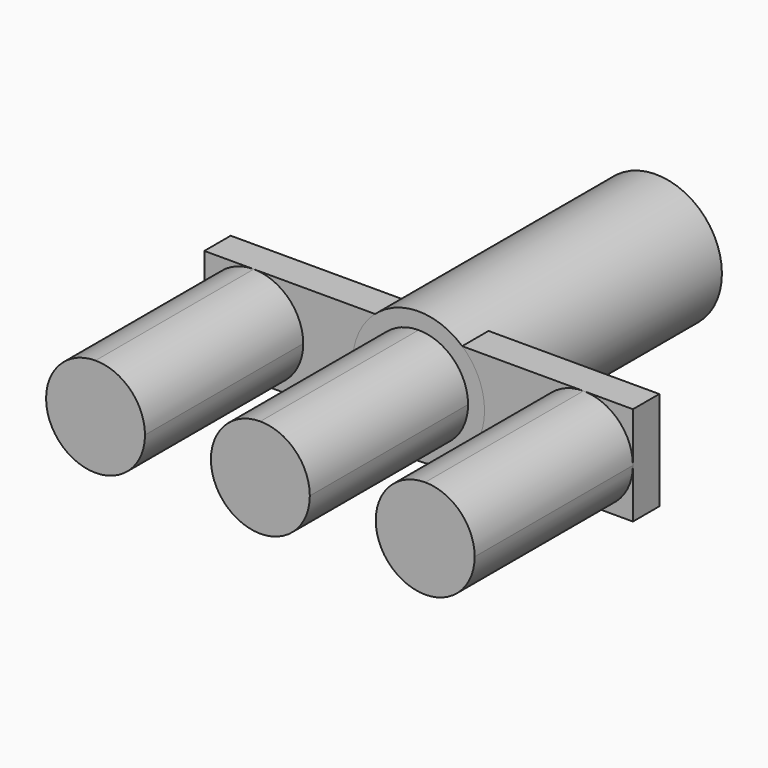
from build123d import *

# Parameters (mm, degrees)
F1_DEPTH = 76.2
F2_DEPTH = 12.7
F3_R     = 25.4
F4_DEPTH = 114.3


with BuildPart() as f1:
    # F0 (on Front) → F1 (new body)
    with BuildSketch(Plane.XZ):
        with BuildLine():
            ThreePointArc((-44.45, 0), (-50.0296158184, 13.4703841816), (-63.5, 19.05))
            ThreePointArc((-63.5, 19.05), (-76.9703841264, 13.4703842368), (-82.55, 1.56e-07))
            ThreePointArc((-82.55, 1.56e-07), (-76.9703842368, -13.4703841264), (-63.5, -19.05))
            ThreePointArc((-63.5, -19.05), (-50.0296158184, -13.4703841816), (-44.45, 0))
        make_face()
    extrude(amount=F1_DEPTH)


with BuildPart() as f1b:
    # F0 (on Front) → F1, piece 2 (new body)
    with BuildSketch(Plane.XZ):
        with BuildLine():
            ThreePointArc((-7.38e-08, -19.05), (13.4703841555, -13.4703842077), (19.05, 0))
            Line((19.05, 0), (0, 0))
            Line((0, 0), (-19.05, 0))
            ThreePointArc((-19.05, 0), (-13.4703842077, -13.4703841555), (-7.38e-08, -19.05))
        make_face()
        with BuildLine():
            Line((0, 0), (19.05, 0))
            ThreePointArc((19.05, 0), (13.4703841605, 13.4703842027), (-5.96e-08, 19.05))
            ThreePointArc((-5.96e-08, 19.05), (-13.4703842027, 13.4703841605), (-19.05, 0))
            Line((-19.05, 0), (0, 0))
        make_face()
    extrude(amount=F1_DEPTH)


with BuildPart() as f1c:
    # F0 (on Front) → F1, piece 3 (new body)
    with BuildSketch(Plane.XZ):
        with BuildLine():
            ThreePointArc((63.5, 19.05), (50.0296158184, 13.4703841816), (44.45, 0))
            ThreePointArc((44.45, 0), (50.0296158184, -13.4703841816), (63.5, -19.05))
            ThreePointArc((63.5, -19.05), (76.9703841816, -13.4703841816), (82.55, 0))
            ThreePointArc((82.55, 0), (76.9703841816, 13.4703841816), (63.5, 19.05))
        make_face()
    extrude(amount=F1_DEPTH)


with BuildPart() as f2:
    # F0 (on Front) → F2 (new body)
    with BuildSketch(Plane.XZ):
        with BuildLine():
            ThreePointArc((-7.38e-08, -19.05), (13.4703841555, -13.4703842077), (19.05, 0))
            Line((19.05, 0), (0, 0))
            Line((0, 0), (-19.05, 0))
            ThreePointArc((-19.05, 0), (-13.4703842077, -13.4703841555), (-7.38e-08, -19.05))
        make_face()
        with BuildLine():
            Line((0, 0), (19.05, 0))
            ThreePointArc((19.05, 0), (13.4703841605, 13.4703842027), (-5.96e-08, 19.05))
            ThreePointArc((-5.96e-08, 19.05), (-13.4703842027, 13.4703841605), (-19.05, 0))
            Line((-19.05, 0), (0, 0))
        make_face()
        with BuildLine():
            ThreePointArc((-44.45, 0), (-50.0296158184, 13.4703841816), (-63.5, 19.05))
            ThreePointArc((-63.5, 19.05), (-76.9703841264, 13.4703842368), (-82.55, 1.56e-07))
            ThreePointArc((-82.55, 1.56e-07), (-76.9703842368, -13.4703841264), (-63.5, -19.05))
            ThreePointArc((-63.5, -19.05), (-50.0296158184, -13.4703841816), (-44.45, 0))
        make_face()
        with BuildLine():
            ThreePointArc((-19.05, 0), (-13.4703842027, 13.4703841605), (-5.96e-08, 19.05))
            Line((-5.96e-08, 19.05), (-63.5, 19.05))
            ThreePointArc((-63.5, 19.05), (-50.0296158184, 13.4703841816), (-44.45, 0))
            Line((-44.45, 0), (-19.05, 0))
        make_face()
        with BuildLine():
            Line((-63.5, -19.05), (-7.38e-08, -19.05))
            ThreePointArc((-7.38e-08, -19.05), (-13.4703842077, -13.4703841555), (-19.05, 0))
            Line((-19.05, 0), (-44.45, 0))
            ThreePointArc((-44.45, 0), (-50.0296158184, -13.4703841816), (-63.5, -19.05))
        make_face()
        with BuildLine():
            Line((-82.55, -19.05), (-63.5, -19.05))
            ThreePointArc((-63.5, -19.05), (-76.9703842368, -13.4703841264), (-82.55, 1.56e-07))
            Line((-82.55, 1.56e-07), (-82.55, -19.05))
        make_face()
        with BuildLine():
            ThreePointArc((-82.55, 1.56e-07), (-76.9703841264, 13.4703842368), (-63.5, 19.05))
            Line((-63.5, 19.05), (-82.55, 19.05))
            Line((-82.55, 19.05), (-82.55, 1.56e-07))
        make_face()
        with BuildLine():
            ThreePointArc((-5.96e-08, 19.05), (13.4703841605, 13.4703842027), (19.05, 0))
            Line((19.05, 0), (44.45, 0))
            ThreePointArc((44.45, 0), (50.0296158184, 13.4703841816), (63.5, 19.05))
            Line((63.5, 19.05), (-5.96e-08, 19.05))
        make_face()
        with BuildLine():
            Line((44.45, 0), (19.05, 0))
            ThreePointArc((19.05, 0), (13.4703841555, -13.4703842077), (-7.38e-08, -19.05))
            Line((-7.38e-08, -19.05), (63.5, -19.05))
            ThreePointArc((63.5, -19.05), (50.0296158184, -13.4703841816), (44.45, 0))
        make_face()
        with BuildLine():
            ThreePointArc((63.5, 19.05), (50.0296158184, 13.4703841816), (44.45, 0))
            ThreePointArc((44.45, 0), (50.0296158184, -13.4703841816), (63.5, -19.05))
            ThreePointArc((63.5, -19.05), (76.9703841816, -13.4703841816), (82.55, 0))
            ThreePointArc((82.55, 0), (76.9703841816, 13.4703841816), (63.5, 19.05))
        make_face()
        with BuildLine():
            ThreePointArc((82.55, 0), (76.9703841816, -13.4703841816), (63.5, -19.05))
            Line((63.5, -19.05), (82.55, -19.05))
            Line((82.55, -19.05), (82.55, 0))
        make_face()
        with BuildLine():
            Line((82.55, 19.05), (63.5, 19.05))
            ThreePointArc((63.5, 19.05), (76.9703841816, 13.4703841816), (82.55, 0))
            Line((82.55, 0), (82.55, 19.05))
        make_face()
    extrude(amount=-F2_DEPTH)


with BuildPart() as f4:
    # F3 (on Front) → F4 (new body)
    with BuildSketch(Plane.XZ):
        Circle(F3_R)
    extrude(amount=-F4_DEPTH)


solid = Compound([f1.part, f1b.part, f1c.part, f2.part, f4.part])
